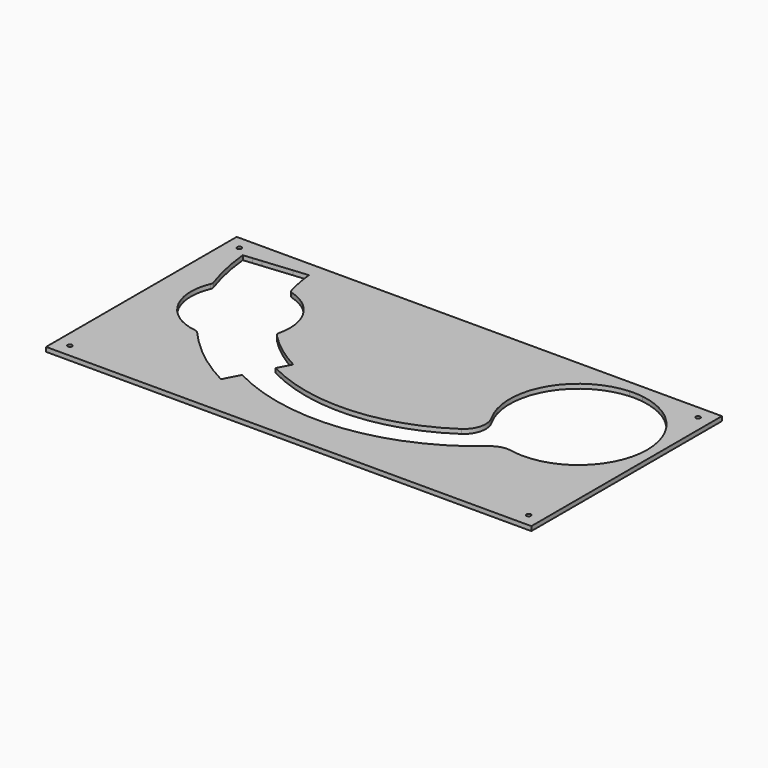
from build123d import *

# Parameters (mm, degrees)
F0_W     = 550
F0_H     = 270
F1_DEPTH = 5
F3_DEPTH = 25
F4_R     = 25
F2_R     = 2.5
F5_DEPTH = 25
F6_R     = 5


with BuildPart() as f1:
    # F0 (on Top) → F1 (new body)
    with BuildSketch(Plane.XY):
        with Locations((275, -135)):
            Rectangle(F0_W, F0_H)
    extrude(amount=-F1_DEPTH)

    # F2 (on face) → F3 (cut)
    with BuildSketch(Plane.XY):
        with BuildLine():
            ThreePointArc((445.5878496959, -168.1072144083), (452.1119253863, -169.1179747106), (458.6981361528, -169.5729777234))
            ThreePointArc((458.6981361528, -169.5729777234), (515.1450884683, -147.5010120731), (538.711061865, -91.6612861494))
            ThreePointArc((538.711061865, -91.6612861494), (531.7751165183, -59.5200686387), (512.2017629268, -33.0994511193))
            ThreePointArc((512.2017629268, -33.0994511193), (489.778644371, -105.9735057557), (445.5878496959, -168.1072144083))
        make_face()
        with BuildLine():
            ThreePointArc((434.4818086721, -165.032732216), (439.9779290015, -166.7755154888), (445.5878496959, -168.1072144083))
            ThreePointArc((445.5878496959, -168.1072144083), (489.778644371, -105.9735057557), (512.2017629268, -33.0994511193))
            ThreePointArc((512.2017629268, -33.0994511193), (507.7316897495, -29.4576002162), (503.004614878, -26.1561769822))
            ThreePointArc((503.004614878, -26.1561769822), (480.8108512866, -101.5487247221), (434.4818086721, -165.032732216))
        make_face()
        with BuildLine():
            ThreePointArc((406.011915497, -147.1219833941), (419.2691571527, -157.6314611673), (434.4818086721, -165.032732216))
            ThreePointArc((434.4818086721, -165.032732216), (480.8108512866, -101.5487247221), (503.004614878, -26.1561769822))
            ThreePointArc((503.004614878, -26.1561769822), (487.87511248, -18.5863859301), (471.4686275556, -14.459543092))
            ThreePointArc((471.4686275556, -14.459543092), (451.6655237624, -87.1681863628), (406.011915497, -147.1219833941))
        make_face()
        with BuildLine():
            ThreePointArc((396.3969974723, -135.5978207964), (400.9264158373, -141.5918788666), (406.011915497, -147.1219833941))
            ThreePointArc((406.011915497, -147.1219833941), (451.6655237624, -87.1681863628), (471.4686275556, -14.459543092))
            ThreePointArc((471.4686275556, -14.459543092), (463.9857274878, -13.7882983897), (456.4729635167, -13.8406471114))
            ThreePointArc((456.4729635167, -13.8406471114), (438.2138341358, -80.5310148123), (396.3969974723, -135.5978207964))
        make_face()
        with BuildLine():
            ThreePointArc((395.2793152892, -133.9137271289), (395.8326968589, -134.7593972826), (396.3969974723, -135.5978207964))
            ThreePointArc((396.3969974723, -135.5978207964), (438.2138341358, -80.5310148123), (456.4729635167, -13.8406471114))
            ThreePointArc((456.4729635167, -13.8406471114), (391.3304963156, -56.2714595868), (395.2793152892, -133.9137271289))
        make_face()
        with BuildLine():
            ThreePointArc((26.1547087534, -24.0004380043), (30.8880481953, -53.9384370008), (39.2095922874, -83.0835942334))
            ThreePointArc((39.2095922874, -83.0835942334), (42.4819606163, -77.1205988593), (46.4524007703, -71.5977994519))
            ThreePointArc((46.4524007703, -71.5977994519), (40.2678425285, -47.5506492992), (36.6062109858, -22.9924196081))
            Line((36.6062109858, -22.9924196081), (26.1547087534, -24.0004380043))
        make_face()
        with BuildLine():
            ThreePointArc((36.6062109858, -22.9924196081), (40.2678425285, -47.5506492992), (46.4524007703, -71.5977994519))
            ThreePointArc((46.4524007703, -71.5977994519), (50.2625511055, -67.3805241048), (54.4801240278, -63.5707031676))
            ThreePointArc((54.4801240278, -63.5707031676), (49.5613274278, -42.9843565598), (46.5600226356, -22.0324020879))
            Line((46.5600226356, -22.0324020879), (36.6062109858, -22.9924196081))
        make_face()
        with BuildLine():
            ThreePointArc((46.5600226356, -22.0324020879), (49.5613274278, -42.9843565598), (54.4801240278, -63.5707031676))
            ThreePointArc((54.4801240278, -63.5707031676), (68.7018719367, -55.1253458568), (84.76908962, -51.1976633843))
            ThreePointArc((84.76908962, -51.1976633843), (81.1661428415, -35.1772059589), (78.9099104977, -18.9123451474))
            Line((78.9099104977, -18.9123451474), (46.5600226356, -22.0324020879))
        make_face()
        with BuildLine():
            ThreePointArc((78.9099104977, -18.9123451474), (81.1661428415, -35.1772059589), (84.76908962, -51.1976633843))
            ThreePointArc((84.76908962, -51.1976633843), (92.7043581114, -51.0322504264), (100.5834584289, -51.9891337337))
            ThreePointArc((100.5834584289, -51.9891337337), (96.3763447636, -34.89397928), (93.8406279725, -17.4723188671))
            Line((93.8406279725, -17.4723188671), (78.9099104977, -18.9123451474))
        make_face()
        with BuildLine():
            ThreePointArc((93.8406279725, -17.4723188671), (96.3763447636, -34.89397928), (100.5834584289, -51.9891337337))
            ThreePointArc((100.5834584289, -51.9891337337), (101.702824577, -52.2182469254), (102.8172889589, -52.4701250099))
            ThreePointArc((102.8172889589, -52.4701250099), (98.4454239564, -35.0497029669), (95.8313903025, -17.2803153631))
            Line((95.8313903025, -17.2803153631), (93.8406279725, -17.4723188671))
        make_face()
        with BuildLine():
            ThreePointArc((102.8172889589, -52.4701250099), (119.1726628165, -90.0990620723), (143.6244940218, -123.0466433063))
            ThreePointArc((143.6244940218, -123.0466433063), (145.375436454, -115.11981647), (145.9631920321, -107.023216784))
            ThreePointArc((145.9631920321, -107.023216784), (133.8730301026, -72.2467564476), (102.8172889589, -52.4701250099))
        make_face()
        with BuildLine():
            ThreePointArc((100.5834584289, -51.9891337337), (117.4412479589, -91.100162762), (142.9268949098, -125.2225814773))
            ThreePointArc((142.9268949098, -125.2225814773), (143.2867819227, -124.1381669965), (143.6244940218, -123.0466433063))
            ThreePointArc((143.6244940218, -123.0466433063), (119.1726628165, -90.0990620723), (102.8172889589, -52.4701250099))
            ThreePointArc((102.8172889589, -52.4701250099), (101.702824577, -52.2182469254), (100.5834584289, -51.9891337337))
        make_face()
        with BuildLine():
            ThreePointArc((84.76908962, -51.1976633843), (104.455636527, -98.6084179347), (135.7230627314, -139.3231306894))
            ThreePointArc((135.7230627314, -139.3231306894), (139.8253147464, -132.5284727964), (142.9268949098, -125.2225814773))
            ThreePointArc((142.9268949098, -125.2225814773), (117.4412479589, -91.100162762), (100.5834584289, -51.9891337337))
            ThreePointArc((100.5834584289, -51.9891337337), (92.7043581114, -51.0322504264), (84.76908962, -51.1976633843))
        make_face()
        with BuildLine():
            ThreePointArc((54.4801240278, -63.5707031676), (76.3201450911, -114.8763041421), (109.8887146149, -159.4004812994))
            ThreePointArc((109.8887146149, -159.4004812994), (124.3031821577, -151.2884347545), (135.7230627314, -139.3231306894))
            ThreePointArc((135.7230627314, -139.3231306894), (104.455636527, -98.6084179347), (84.76908962, -51.1976633843))
            ThreePointArc((84.76908962, -51.1976633843), (68.7018719367, -55.1253458568), (54.4801240278, -63.5707031676))
        make_face()
        with BuildLine():
            ThreePointArc((46.4524007703, -71.5977994519), (67.6630708031, -119.8818075906), (98.9269281749, -162.353082441))
            ThreePointArc((98.9269281749, -162.353082441), (104.4827523758, -161.1549696004), (109.8887146149, -159.4004812994))
            ThreePointArc((109.8887146149, -159.4004812994), (76.3201450911, -114.8763041421), (54.4801240278, -63.5707031676))
            ThreePointArc((54.4801240278, -63.5707031676), (50.2625511055, -67.3805241048), (46.4524007703, -71.5977994519))
        make_face()
        with BuildLine():
            ThreePointArc((39.2095922874, -83.0835942334), (58.5731428007, -125.1375862115), (85.359218008, -162.8998889056))
            ThreePointArc((85.359218008, -162.8998889056), (92.159689712, -163.0387878421), (98.9269281749, -162.353082441))
            ThreePointArc((98.9269281749, -162.353082441), (67.6630708031, -119.8818075906), (46.4524007703, -71.5977994519))
            ThreePointArc((46.4524007703, -71.5977994519), (42.4819606163, -77.1205988593), (39.2095922874, -83.0835942334))
        make_face()
        with BuildLine():
            ThreePointArc((39.2095922874, -83.0835942334), (41.3696850637, -135.0845918815), (85.359218008, -162.8998889056))
            ThreePointArc((85.359218008, -162.8998889056), (58.5731428007, -125.1375862115), (39.2095922874, -83.0835942334))
        make_face()
        with BuildLine():
            ThreePointArc((142.9268949098, -125.2225814773), (165.4491613095, -145.3362093293), (190.9870540226, -161.4491403142))
            Line((190.9870540226, -161.4491403142), (191.9102732092, -159.6749739371))
            ThreePointArc((191.9102732092, -159.6749739371), (166.2146946142, -143.4076613439), (143.6244940218, -123.0466433063))
            ThreePointArc((143.6244940218, -123.0466433063), (143.2867819227, -124.1381669965), (142.9268949098, -125.2225814773))
        make_face()
        with BuildLine():
            ThreePointArc((135.7230627314, -139.3231306894), (158.5376207067, -158.8883702772), (184.0629101234, -174.7553881423))
            Line((184.0629101234, -174.7553881423), (190.9870540226, -161.4491403142))
            ThreePointArc((190.9870540226, -161.4491403142), (165.4491613095, -145.3362093293), (142.9268949098, -125.2225814773))
            ThreePointArc((142.9268949098, -125.2225814773), (139.8253147464, -132.5284727964), (135.7230627314, -139.3231306894))
        make_face()
        with BuildLine():
            ThreePointArc((109.8887146149, -159.4004812994), (137.6857628157, -183.8886898819), (169.0605983417, -203.5855917699))
            Line((169.0605983417, -203.5855917699), (184.0629101234, -174.7553881423))
            ThreePointArc((184.0629101234, -174.7553881423), (158.5376207067, -158.8883702772), (135.7230627314, -139.3231306894))
            ThreePointArc((135.7230627314, -139.3231306894), (124.3031821577, -151.2884347545), (109.8887146149, -159.4004812994))
        make_face()
        with BuildLine():
            ThreePointArc((98.9269281749, -162.353082441), (129.5126452175, -190.2463655327), (164.4445024089, -212.4564236553))
            Line((164.4445024089, -212.4564236553), (169.0605983417, -203.5855917699))
            ThreePointArc((169.0605983417, -203.5855917699), (137.6857628157, -183.8886898819), (109.8887146149, -159.4004812994))
            ThreePointArc((109.8887146149, -159.4004812994), (104.4827523758, -161.1549696004), (98.9269281749, -162.353082441))
        make_face()
        with BuildLine():
            ThreePointArc((85.359218008, -162.8998889056), (119.6639725539, -195.884452107), (159.5976016794, -221.7707971349))
            Line((159.5976016794, -221.7707971349), (164.4445024089, -212.4564236553))
            ThreePointArc((164.4445024089, -212.4564236553), (129.5126452175, -190.2463655327), (98.9269281749, -162.353082441))
            ThreePointArc((98.9269281749, -162.353082441), (92.159689712, -163.0387878421), (85.359218008, -162.8998889056))
        make_face()
        with BuildLine():
            Line((184.0629101234, -174.7553881423), (169.0605983417, -203.5855917699))
            ThreePointArc((169.0605983417, -203.5855917699), (307.9890600374, -227.1166482622), (434.4818086721, -165.032732216))
            ThreePointArc((434.4818086721, -165.032732216), (419.2691571527, -157.6314611673), (406.011915497, -147.1219833941))
            ThreePointArc((406.011915497, -147.1219833941), (299.3392517679, -195.4906668447), (184.0629101234, -174.7553881423))
        make_face()
    extrude(amount=-F3_DEPTH, mode=Mode.SUBTRACT)

    # F4
    f4_edges = [f1.edges().sort_by_distance(p)[0] for p in [
        (406.011915, -147.121983, -2.5),
        (434.481809, -165.032732, -2.5),
    ]]
    fillet(f4_edges, radius=F4_R)

    # F2 (on face) → F5 (cut)
    with BuildSketch(Plane.XY):
        with Locations((15, -15)):
            Circle(F2_R)
        with BuildLine():
            ThreePointArc((17.5, -255), (13.232233047, -253.232233047), (15, -257.5))
            ThreePointArc((15, -257.5), (16.767766953, -256.767766953), (17.5, -255))
        make_face()
        with Locations((535, -255)):
            Circle(F2_R)
        with BuildLine():
            ThreePointArc((537.5, -15), (536.767766953, -13.232233047), (535, -12.5))
            ThreePointArc((535, -12.5), (533.232233047, -16.767766953), (537.5, -15))
        make_face()
    extrude(amount=-F5_DEPTH, mode=Mode.SUBTRACT)

    # F6
    f6_edges = [f1.edges().sort_by_distance(p)[0] for p in [
        (102.817289, -52.470125, -2.5),
        (143.624494, -123.046643, -2.5),
        (39.209592, -83.083594, -2.5),
        (85.359218, -162.899889, -2.5),
    ]]
    fillet(f6_edges, radius=F6_R)


solid = f1.part
